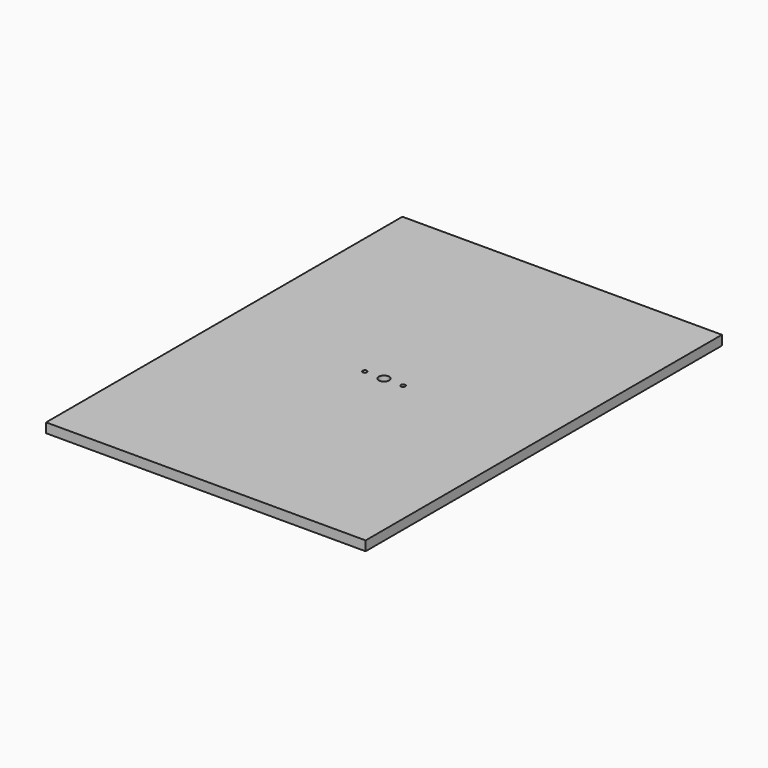
from build123d import *

# Parameters (mm, degrees)
SKETCH020_W     = 400
SKETCH020_H     = 557.5
PAD008_DEPTH    = 12
SKETCH021_R     = 6.5
POCKET005_DEPTH = 12.001
SKETCH039_R     = 2.75
HOLE006_DEPTH   = 1386.241465


with BuildPart() as part:
    # Sketch020 → Pad008 (new body)
    with BuildSketch(Plane.XY):
        Rectangle(SKETCH020_W, SKETCH020_H)
    extrude(amount=PAD008_DEPTH)

    # Sketch021 → Pocket005 (cut, through all)
    with BuildSketch(Plane.XY):
        Circle(SKETCH021_R)
    extrude(amount=POCKET005_DEPTH, mode=Mode.SUBTRACT)

    # Sketch039 → Hole006 (cut)
    with BuildSketch(Plane.XY):
        with Locations((-24, 0)):
            Circle(SKETCH039_R)
        with Locations((24, 0)):
            Circle(SKETCH039_R)
    extrude(amount=HOLE006_DEPTH, mode=Mode.SUBTRACT)


solid = part.part
